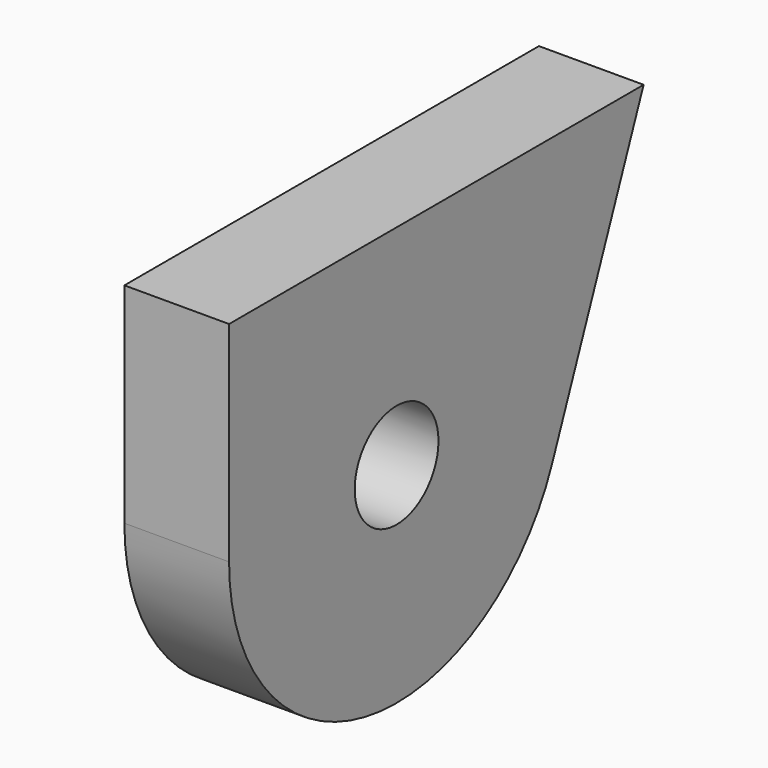
from build123d import *

# Parameters (mm, degrees)
F0_R     = 6.35
F1_DEPTH = 12.7


with BuildPart() as f1:
    # F0 (on Right) → F1 (new body)
    with BuildSketch(Plane.YZ):
        with BuildLine():
            Line((37.457174, 25.4), (-25.4, 25.4))
            Line((-25.4, 25.4), (-25.4, 0))
            ThreePointArc((-25.4, 0), (-4.784957, -24.945224), (23.59718, -9.398569))
            Line((23.59718, -9.398569), (37.457174, 25.4))
        make_face()
        Circle(F0_R, mode=Mode.SUBTRACT)
    extrude(amount=F1_DEPTH)


solid = f1.part
